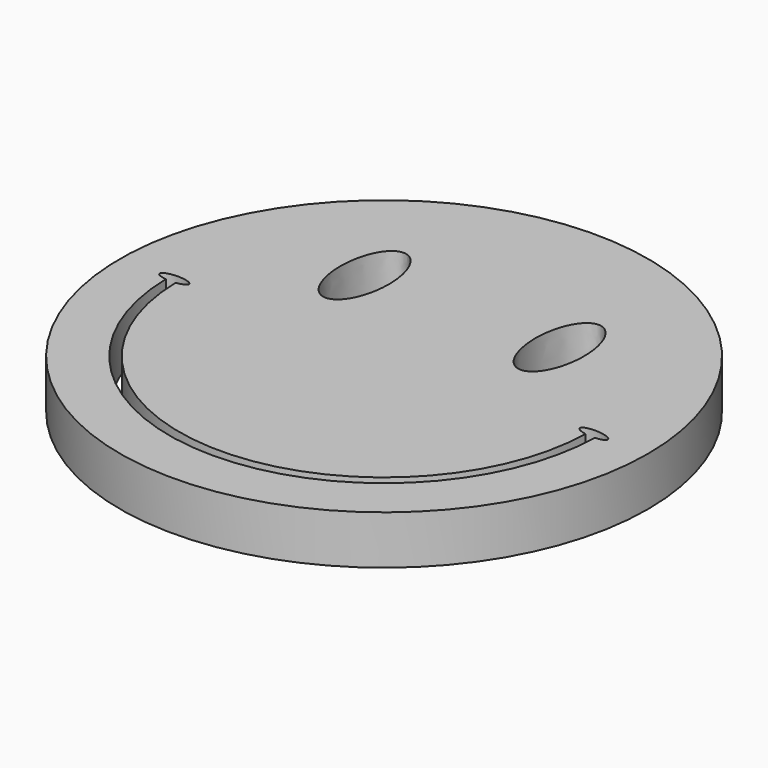
from build123d import *

# Parameters (mm, degrees)
F0_R     = 68.757392
F1_DEPTH = 12.7


with BuildPart() as f1:
    # F0 (on Top) → F1 (new body)
    with BuildSketch(Plane.XY):
        Circle(F0_R)
        with BuildLine():
            ThreePointArc((55.901602, -1.27476), (-0.037952, -55.916121), (-55.903281, -1.198874))
            add(Edge.make_bspline(
                [(-50.836134, 0), (-50.836134, 2.458834), (-56.851398, 1.035638), (-62.866661, -0.387558), (-55.903281, -1.198874)],
                knots=[0, 0, 0, 2.188064, 2.188064, 4.376128, 4.376128, 4.376128], degree=2, weights=[1, 0.458907, 1, 0.458907, 1]))
            add(Edge.make_bspline(
                [(-53.362738, -1.195779), (-50.836134, -0.894476), (-50.836134, 0)],
                knots=[5.055958, 5.055958, 5.055958, 6.283185, 6.283185, 6.283185], degree=2, weights=[1, 0.817572, 1]))
            ThreePointArc((-53.362738, -1.195779), (0.036505, -53.376122), (53.364324, -1.122787))
            add(Edge.make_bspline(
                [(58.447855, -0.251035), (58.611309, 2.224346), (52.491207, 1.174838), (46.371105, 0.125329), (53.364324, -1.122787)],
                knots=[0, 0, 0, 2.195289, 2.195289, 4.390578, 4.390578, 4.390578], degree=2, weights=[1, 0.455694, 1, 0.455694, 1]))
            add(Edge.make_bspline(
                [(55.901602, -1.27476), (58.389848, -1.129509), (58.447855, -0.251035)],
                knots=[5.070866, 5.070866, 5.070866, 6.283185, 6.283185, 6.283185], degree=2, weights=[1, 0.821842, 1]))
        make_face(mode=Mode.SUBTRACT)
        with BuildLine():
            add(Edge.make_bspline(
                [(-19.05, 25.4), (-19.05, 56.060512), (-29.890128, 34.380256), (-40.730256, 12.7), (-25.4, 12.7)],
                knots=[1.570796, 1.570796, 1.570796, 3.926991, 3.926991, 6.283185, 6.283185, 6.283185], degree=2, weights=[1, 0.382683, 1, 0.382683, 1]))
            add(Edge.make_bspline(
                [(-25.4, 12.7), (-19.05, 12.7), (-19.05, 25.4)],
                knots=[0, 0, 0, 1.570796, 1.570796, 1.570796], degree=2, weights=[1, 0.707107, 1]))
        make_face(mode=Mode.SUBTRACT)
        with BuildLine():
            add(Edge.make_bspline(
                [(25.4, 12.7), (40.730256, 12.7), (29.890128, 34.380256), (19.05, 56.060512), (19.05, 25.4)],
                knots=[0, 0, 0, 2.356194, 2.356194, 4.712389, 4.712389, 4.712389], degree=2, weights=[1, 0.382683, 1, 0.382683, 1]))
            add(Edge.make_bspline(
                [(19.05, 25.4), (19.05, 12.7), (25.4, 12.7)],
                knots=[4.712389, 4.712389, 4.712389, 6.283185, 6.283185, 6.283185], degree=2, weights=[1, 0.707107, 1]))
        make_face(mode=Mode.SUBTRACT)
    extrude(amount=F1_DEPTH)


solid = f1.part
